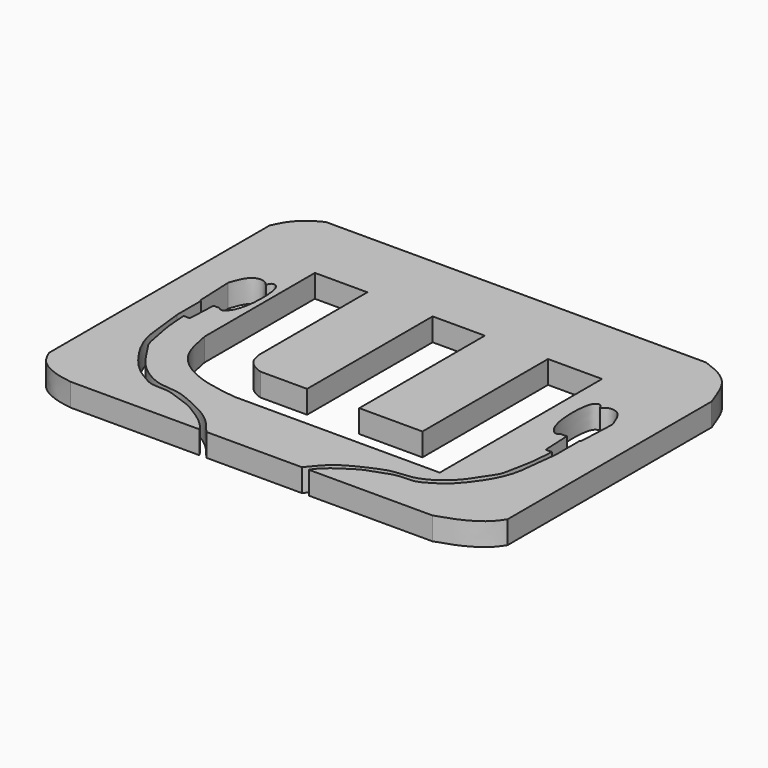
from build123d import *

# Parameters (mm, degrees)
F1_DEPTH = 3


with BuildPart() as f1:
    # F0 (on Top) → F1 (new body)
    with BuildSketch(Plane.XY):
        with BuildLine():
            Line((20.5527181621, 30.195697915), (-29.4472818379, 30.195697915))
            add(Edge.make_bspline(
                [(-33.4885001085, 25.9894452414), (-33.213703802, 26.5808699423), (-32.6507121711, 27.7925571051), (-31.0757898275, 29.37360199), (-29.9730210707, 29.9302966497), (-29.4472818379, 30.195697915)],
                knots=[0, 0, 0, 0, 0.3328563765, 0.6819427693, 1, 1, 1, 1], degree=3))
            Line((-33.4885001085, 25.9894452414), (-33.4885001085, -10.2902378456))
            add(Edge.make_bspline(
                [(-27.7322423042, -13.9418656194), (-28.4836058117, -13.8252421446), (-30.0375167068, -13.5840506488), (-32.5768259091, -12.3435159595), (-33.1955576712, -10.9500045645), (-33.4885001085, -10.2902378456)],
                knots=[0, 0, 0, 0, 0.3301907957, 0.682874627, 1, 1, 1, 1], degree=3))
            Line((-27.7322423042, -13.9418656194), (-10.7898019482, -13.9418656194))
            add(Edge.make_bspline(
                [(-28.5088235463, 4.5570421469), (-28.3963078081, 3.5536701607), (-28.1672579469, 1.5110917816), (-27.8457487973, -1.8036249304), (-26.1769655582, -4.8521782939), (-24.1052736346, -7.3811315964), (-22.2723113651, -8.4849159584), (-20.8619134501, -9.3358274832), (-18.592595939, -9.0991872739), (-16.8258854922, -9.9550678155), (-15.1376214427, -10.3836937437), (-13.7721703287, -11.2919130026), (-12.4961650489, -12.0776401334), (-11.2562944693, -13.1877426319), (-10.9278471754, -13.7187043157), (-10.7898019482, -13.9418656194)],
                knots=[0, 0, 0, 0, 0.0929243816, 0.1891674626, 0.288234633, 0.3840724913, 0.4607153882, 0.5272820506, 0.60555499, 0.6798904382, 0.7496193013, 0.8168147609, 0.8828740561, 0.9507723831, 1, 1, 1, 1], degree=3))
            Line((-28.5088235463, 4.5570421469), (-28.5088235463, 8.478385812))
            Line((-28.5088235463, 8.478385812), (-28.6465575529, 8.4724735778))
            Line((-28.6465575529, 8.4724735778), (-28.856180302, 13.3559372531))
            add(Edge.make_bspline(
                [(-25.5610939354, 15.445505253), (-25.7202536842, 15.6250241148), (-26.0547418232, 16.0022987113), (-27.0404386684, 16.1175815198), (-28.1920106621, 15.5122913758), (-28.8686699031, 13.3783552584), (-28.856180302, 13.3559372531)],
                knots=[0, 0, 0, 0, 0.1912766505, 0.4019846184, 0.6693050093, 0.9903074667, 0.9903074667, 0.9903074667, 0.9903074667], degree=3))
            add(Edge.make_bspline(
                [(-25.5610939354, 15.445505253), (-25.4510607343, 15.6864427113), (-25.2542498411, 16.1173955139), (-24.672470838, 16.0292127347), (-23.9254769017, 15.2814700519), (-23.8315402851, 9.7381500352), (-25.4687543478, 7.9443834682), (-25.8909183497, 8.3081683223), (-26.0350888111, 8.4324021036)],
                knots=[0, 0, 0, 0, 0.1200958505, 0.2148094519, 0.3511054974, 0.6917004605, 0.8947146449, 1, 1, 1, 1], degree=3))
            Line((-26.0350888111, 8.4324021036), (-26.8303478097, 8.4324021036))
            Line((-26.8303478097, 8.4324021036), (-26.9962109493, 4.7458451406))
            Line((-26.9962109493, 4.7458451406), (-27.8046563828, 4.7458451406))
            add(Edge.make_bspline(
                [(-9.8643423474, -13.9418656194), (-10.4228235309, -13.2559319779), (-11.4892555432, -11.9461267143), (-13.1703868992, -10.7229947742), (-15.8958370989, -9.4484884404), (-17.8112127607, -8.705095499), (-20.5599194862, -8.7415516056), (-23.1492858216, -7.1967512579), (-24.7741798058, -5.4807986695), (-25.8782752386, -3.5929053261), (-26.8058199051, -2.4479926091), (-27.0574701536, -0.8485923563), (-27.4420496003, 0.9748753662), (-27.6455521715, 2.2734168237), (-27.7760395118, 4.1540133465), (-27.7971303251, 4.5901970895), (-27.8046563828, 4.7458451406)],
                knots=[0, 0, 0, 0, 0.0811318182, 0.1549229781, 0.242183123, 0.3154777228, 0.3981332361, 0.4853975139, 0.564102051, 0.6385914444, 0.6993278926, 0.7634010469, 0.8322739833, 0.8928474316, 0.9617636175, 1, 1, 1, 1], degree=3))
            Line((-9.8643423474, -13.9418656194), (2.6848182054, -13.9418656194))
            add(Edge.make_bspline(
                [(2.6848182054, -13.9418656194), (3.2432993889, -13.2559319779), (4.3097314011, -11.9461267143), (5.9908627572, -10.7229947742), (8.7163129569, -9.4484884404), (10.6316886187, -8.705095499), (13.3803953442, -8.7415516056), (15.9697616796, -7.1967512579), (17.5946556638, -5.4807986695), (18.6987510966, -3.5929053261), (19.626295763, -2.4479926091), (19.8779460115, -0.8485923563), (20.2625254583, 0.9748753662), (20.4660280294, 2.2734168237), (20.5965153698, 4.1540133465), (20.6176061831, 4.5901970895), (20.6251322408, 4.7458451406)],
                knots=[0, 0, 0, 0, 0.0811318182, 0.1549229781, 0.242183123, 0.3154777228, 0.3981332361, 0.4853975139, 0.564102051, 0.6385914444, 0.6993278926, 0.7634010469, 0.8322739833, 0.8928474316, 0.9617636175, 1, 1, 1, 1], degree=3))
            Line((20.6251322408, 4.7458451406), (19.8166868073, 4.7458451406))
            Line((19.8166868073, 4.7458451406), (19.6508236677, 8.4324021036))
            Line((19.6508236677, 8.4324021036), (18.8555646691, 8.4324021036))
            add(Edge.make_bspline(
                [(18.3815697934, 15.445505253), (18.2715365923, 15.6864427113), (18.0747256991, 16.1173955139), (17.492946696, 16.0292127347), (16.7459527597, 15.2814700519), (16.6520161431, 9.7381500352), (18.2892302058, 7.9443834682), (18.7113942077, 8.3081683223), (18.8555646691, 8.4324021036)],
                knots=[0, 0, 0, 0, 0.1200958505, 0.2148094519, 0.3511054974, 0.6917004605, 0.8947146449, 1, 1, 1, 1], degree=3))
            add(Edge.make_bspline(
                [(18.3815697934, 15.445505253), (18.5407295422, 15.6250241148), (18.8752176812, 16.0022987113), (19.8609145264, 16.1175815198), (21.0124865201, 15.5122913758), (21.6891457611, 13.3783552584), (21.67665616, 13.3559372531)],
                knots=[0, 0, 0, 0, 0.1912766505, 0.4019846184, 0.6693050093, 0.9903074667, 0.9903074667, 0.9903074667, 0.9903074667], degree=3))
            Line((21.67665616, 13.3559372531), (21.4670334109, 8.4724735778))
            Line((21.4670334109, 8.4724735778), (21.3292994042, 8.478385812))
            Line((21.3292994042, 8.478385812), (21.3292994042, 4.5570421469))
            add(Edge.make_bspline(
                [(21.3292994042, 4.5570421469), (21.2167836661, 3.5536701607), (20.9877338049, 1.5110917816), (20.6662246553, -1.8036249304), (18.9974414162, -4.8521782939), (16.9257494926, -7.3811315964), (15.0927872231, -8.4849159584), (13.6823893081, -9.3358274832), (11.413071797, -9.0991872739), (9.6463613501, -9.9550678155), (7.9580973007, -10.3836937437), (6.5926461867, -11.2919130026), (5.3166409069, -12.0776401334), (4.0767703273, -13.1877426319), (3.7483230334, -13.7187043157), (3.6102778062, -13.9418656194)],
                knots=[0, 0, 0, 0, 0.0929243816, 0.1891674626, 0.288234633, 0.3840724913, 0.4607153882, 0.5272820506, 0.60555499, 0.6798904382, 0.7496193013, 0.8168147609, 0.8828740561, 0.9507723831, 1, 1, 1, 1], degree=3))
            Line((3.6102778062, -13.9418656194), (19.8514924581, -13.9418656194))
            add(Edge.make_bspline(
                [(19.8514924581, -13.9418656194), (20.8477088835, -13.6239308956), (22.7990353174, -13.0011802412), (25.3220593168, -11.4430657877), (26.0894092473, -10.305916103), (26.4343726067, -9.7947086866)],
                knots=[0, 0, 0, 0, 0.3647320307, 0.7144142924, 1, 1, 1, 1], degree=3))
            Line((26.4343726067, -9.7947086866), (26.4343726067, 23.7857923042))
            add(Edge.make_bspline(
                [(20.5527181621, 30.195697915), (21.2833579401, 29.9339812014), (22.8395419668, 29.3524729862), (25.1574728875, 27.6199003715), (25.9560887811, 25.0016155559), (26.4343726067, 23.7857923042)],
                knots=[0, 0, 0, 0, 0.2969729715, 0.6163665308, 1, 1, 1, 1], degree=3))
        make_face()
        with BuildLine():
            Line((-23.2653390975, 2.5283608725), (-23.2653390975, 20.6488644777))
            Line((-23.2653390975, 20.6488644777), (-16.3622886956, 20.6488644777))
            Line((-16.3622886956, 20.6488644777), (-16.3622886956, 2.8813569857))
            add(Edge.make_bspline(
                [(-16.3622886956, 2.8813569857), (-16.2766822422, 2.3529362143), (-16.1090692339, 1.3183156735), (-14.9211291825, 0.3659074087), (-14.2433134647, 0.1155350226), (-13.9305335471, 0)],
                knots=[0, 0, 0, 0, 0.3598722801, 0.7046113121, 1, 1, 1, 1], degree=3))
            Line((-13.9305335471, 0), (-7.7726994497, 0))
            Line((-7.7726994497, 0), (-7.7726994497, 20.6488644777))
            Line((-7.7726994497, 20.6488644777), (-0.9088727238, 20.6488644777))
            Line((-0.9088727238, 20.6488644777), (-0.9088727238, 0))
            Line((-0.9088727238, 0), (7.4061643025, 0))
            Line((7.4061643025, 0), (7.4061643025, 20.6488644777))
            Line((7.4061643025, 20.6488644777), (14.5135857856, 20.6488644777))
            Line((14.5135857856, 20.6488644777), (14.5135857856, -6.0365998399))
            Line((14.5135857856, -6.0365998399), (-12.5105396895, -6.0365998399))
            add(Edge.make_bspline(
                [(-23.2653390975, 2.5283608725), (-22.972712073, 0.886412802), (-22.3857188434, -2.4072419863), (-17.9138591634, -5.3236731255), (-14.3471111697, -5.7942782675), (-12.5105396895, -6.0365998399)],
                knots=[0, 0, 0, 0, 0.325335941, 0.6526054626, 1, 1, 1, 1], degree=3))
        make_face(mode=Mode.SUBTRACT)
    extrude(amount=F1_DEPTH)


solid = f1.part
